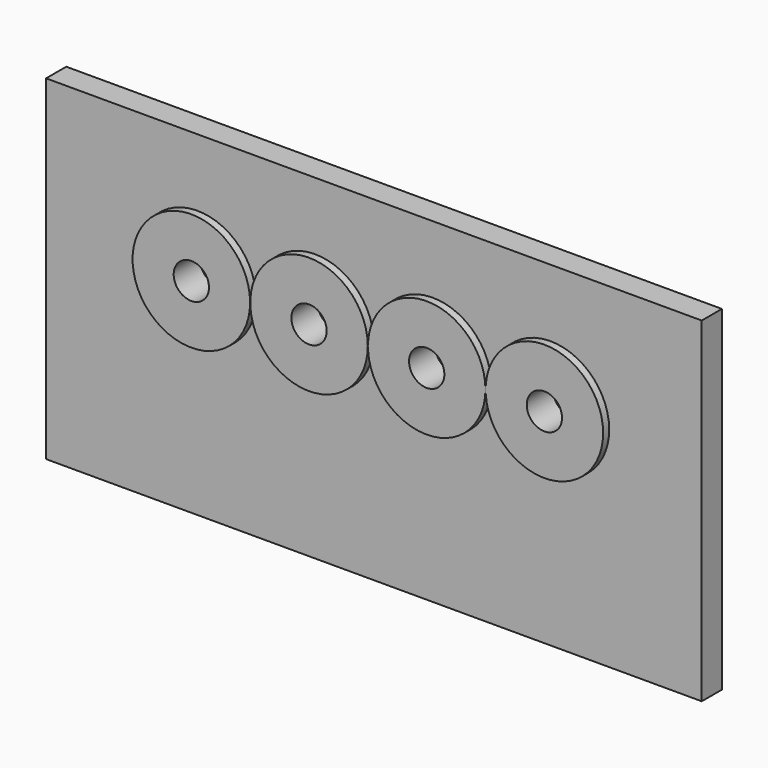
from build123d import *

# Parameters (mm, degrees)
F0_R     = 11.65
F0_R_2   = 3.5
F1_DEPTH = 2.5
F2_DEPTH = 4
F3_DEPTH = 4
F4_DEPTH = 4
F5_DEPTH = 4
F6_DEPTH = 4


with BuildPart() as f1:
    # F0 (on Front) → F1 (new body, symmetric)
    with BuildSketch(Plane.XZ):
        Polygon((0, 33.2328369043), (-65, 33.2328369043), (-65, -33.2328369043), (65, -33.2328369043), (65, 33.2328369043), align=None)
        with Locations((-35, 8.2328369043)):
            Circle(F0_R, mode=Mode.SUBTRACT)
        with Locations((-11.6665, 8.2328369043)):
            Circle(F0_R, mode=Mode.SUBTRACT)
        with Locations((11.667, 8.2328369043)):
            Circle(F0_R, mode=Mode.SUBTRACT)
        with Locations((35, 8.2328369043)):
            Circle(F0_R, mode=Mode.SUBTRACT)
        with Locations((-11.6665, 8.2328369043)):
            Circle(F0_R)
        with Locations((-11.6665, 8.2328369043)):
            Circle(F0_R_2, mode=Mode.SUBTRACT)
        with Locations((11.667, 8.2328369043)):
            Circle(F0_R)
        with Locations((11.667, 8.2328369043)):
            Circle(F0_R_2, mode=Mode.SUBTRACT)
        with Locations((35, 8.2328369043)):
            Circle(F0_R)
        with Locations((35, 8.2328369043)):
            Circle(F0_R_2, mode=Mode.SUBTRACT)
        with Locations((-35, 8.2328369043)):
            Circle(F0_R)
        with Locations((-35, 8.2328369043)):
            Circle(F0_R_2, mode=Mode.SUBTRACT)
    extrude(amount=F1_DEPTH, both=True)

    # F0 (on Front) → F2 (join)
    with BuildSketch(Plane.XZ):
        with Locations((35, 8.2328369043)):
            Circle(F0_R)
        with Locations((35, 8.2328369043)):
            Circle(F0_R_2, mode=Mode.SUBTRACT)
    extrude(amount=F2_DEPTH)

    # F0 (on Front) → F3 (join)
    with BuildSketch(Plane.XZ):
        with Locations((-35, 8.2328369043)):
            Circle(F0_R)
        with Locations((-35, 8.2328369043)):
            Circle(F0_R_2, mode=Mode.SUBTRACT)
    extrude(amount=F3_DEPTH)

    # F0 (on Front) → F4 (join)
    with BuildSketch(Plane.XZ):
        with Locations((-11.6665, 8.2328369043)):
            Circle(F0_R)
        with Locations((-11.6665, 8.2328369043)):
            Circle(F0_R_2, mode=Mode.SUBTRACT)
    extrude(amount=F4_DEPTH)

    # F0 (on Front) → F5 (join)
    with BuildSketch(Plane.XZ):
        with Locations((11.667, 8.2328369043)):
            Circle(F0_R)
        with Locations((11.667, 8.2328369043)):
            Circle(F0_R_2, mode=Mode.SUBTRACT)
    extrude(amount=F5_DEPTH)

    # F0 (on Front) → F6 (join)
    with BuildSketch(Plane.XZ):
        with Locations((11.667, 8.2328369043)):
            Circle(F0_R)
        with Locations((11.667, 8.2328369043)):
            Circle(F0_R_2, mode=Mode.SUBTRACT)
    extrude(amount=F6_DEPTH)


solid = f1.part
